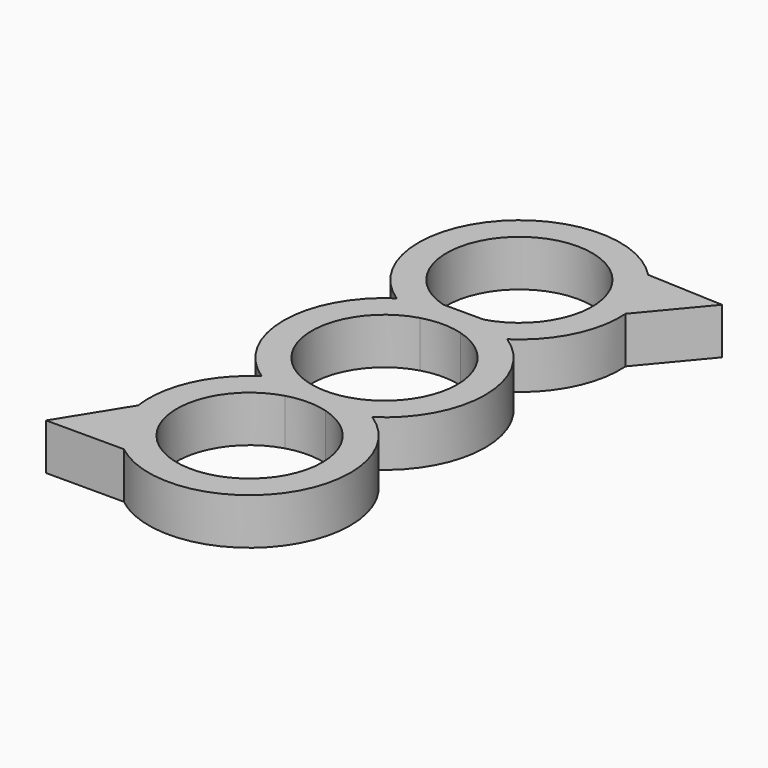
from build123d import *

# Parameters (mm, degrees)
F1_DEPTH = 7


with BuildPart() as f1:
    # F0 (on Top) → F1 (new body)
    with BuildSketch(Plane.XY):
        with BuildLine():
            ThreePointArc((8.360793, -12.74185), (15.24, 0), (8.360793, 12.74185))
            ThreePointArc((8.360793, 12.74185), (13.653784, 18.713783), (15.203219, 26.541872))
            Line((15.203219, 26.541872), (22.636257, 35.444071))
            Line((22.636257, 35.444071), (11.051173, 35.977945))
            ThreePointArc((11.051173, 35.977945), (-11.695664, 35.254526), (-8.360793, 12.74185))
            ThreePointArc((-8.360793, 12.74185), (-15.24, 0), (-8.360793, -12.74185))
            ThreePointArc((-8.360793, -12.74185), (-13.896516, -19.227148), (-15.082229, -27.670928))
            Line((-15.082229, -27.670928), (-21.164507, -37.460817))
            Line((-21.164507, -37.460817), (-9.423708, -37.460817))
            ThreePointArc((-9.423708, -37.460817), (12.370904, -34.384168), (8.360793, -12.74185))
        make_face()
        with BuildLine():
            ThreePointArc((3.066586, -14.928284), (8.790001, -18.883953), (10.99185, -25.4837))
            ThreePointArc((10.99185, -25.4837), (-6.599747, -34.273701), (-3.066586, -14.928284))
            ThreePointArc((-3.066586, -14.928284), (0, -14.49185), (3.066586, -14.928284))
        make_face(mode=Mode.SUBTRACT)
        with BuildLine():
            ThreePointArc((3.066586, 10.555416), (8.790001, 6.599747), (10.99185, 0))
            ThreePointArc((10.99185, 0), (8.790001, -6.599747), (3.066586, -10.555416))
            ThreePointArc((3.066586, -10.555416), (0, -10.99185), (-3.066586, -10.555416))
            ThreePointArc((-3.066586, -10.555416), (-10.99185, 0), (-3.066586, 10.555416))
            ThreePointArc((-3.066586, 10.555416), (0, 10.99185), (3.066586, 10.555416))
        make_face(mode=Mode.SUBTRACT)
        with BuildLine():
            ThreePointArc((-3.066586, 14.928284), (0, 36.47555), (3.066586, 14.928284))
            Line((3.066586, 14.928284), (-3.066586, 14.928284))
        make_face(mode=Mode.SUBTRACT)
    extrude(amount=F1_DEPTH)


solid = f1.part
